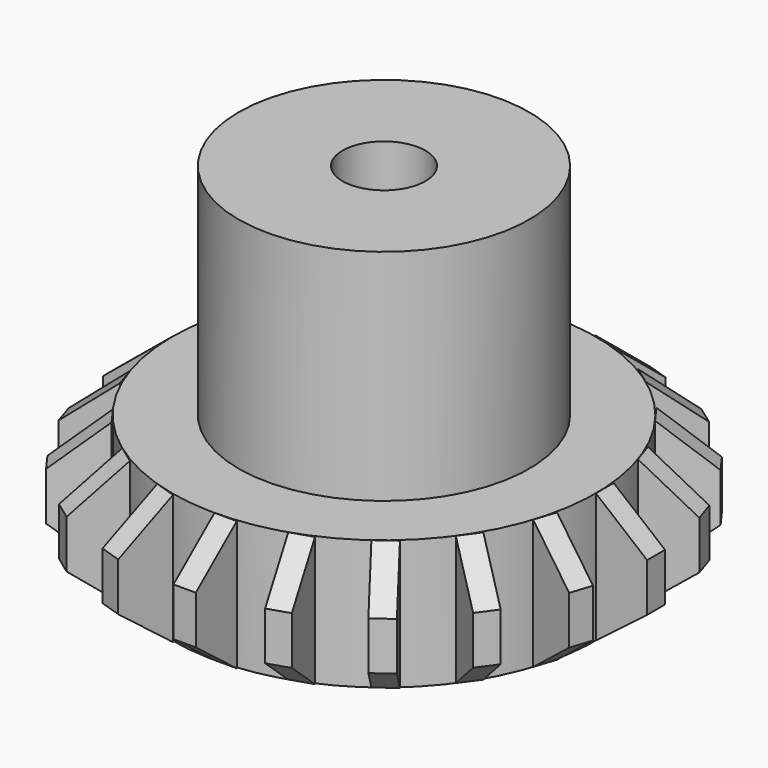
from build123d import *

# Parameters (mm, degrees)
F0_W     = 0.9702211246
F0_H     = 11.6233751178
F0_W_2   = 5.9632947668
F2_DEPTH = 2
F3_COUNT = 20


with BuildPart() as f1:
    # F0 (on Front) → F1 (revolve)
    with BuildSketch(Plane.XZ):
        Polygon((-8.3493674174, 0), (0, 0), (0, 31.2871970236), (-9.319588542, 31.2871970236), (-9.319588542, 11.6233751178), (-8.3493674174, 11.6233751178), align=None)
        with Locations((-8.8344779797, 5.8116875589)):
            Rectangle(F0_W, F0_H)
        with Locations((-12.3012359254, 5.8116875589)):
            Rectangle(F0_W_2, F0_H)
    revolve(axis=Axis((3.7140103523, 0, 15.1801782195), (0, 0, -1)))


with BuildPart() as f2:
    # F0 (on Front) → F2 (new body)
    with BuildSketch(Plane.XZ):
        Polygon((-19.8752097785, 3.5192684736), (-15.2828833088, 0), (-15.2828833088, 11.6233751178), (-19.8752097785, 7.8414585441), align=None)
    extrude(amount=F2_DEPTH)


with BuildPart() as f3_1:
    # F3: instance of F2
    add(f2.part.rotate(Axis((3.7140103523, 0, 15.1801782195), (0, 0, -1)), 1 * 360 / F3_COUNT))


with BuildPart() as f3_2:
    # F3: instance of F2
    add(f2.part.rotate(Axis((3.7140103523, 0, 15.1801782195), (0, 0, -1)), 2 * 360 / F3_COUNT))


with BuildPart() as f3_3:
    # F3: instance of F2
    add(f2.part.rotate(Axis((3.7140103523, 0, 15.1801782195), (0, 0, -1)), 3 * 360 / F3_COUNT))


with BuildPart() as f3_4:
    # F3: instance of F2
    add(f2.part.rotate(Axis((3.7140103523, 0, 15.1801782195), (0, 0, -1)), 4 * 360 / F3_COUNT))


with BuildPart() as f3_5:
    # F3: instance of F2
    add(f2.part.rotate(Axis((3.7140103523, 0, 15.1801782195), (0, 0, -1)), 5 * 360 / F3_COUNT))


with BuildPart() as f3_6:
    # F3: instance of F2
    add(f2.part.rotate(Axis((3.7140103523, 0, 15.1801782195), (0, 0, -1)), 6 * 360 / F3_COUNT))


with BuildPart() as f3_7:
    # F3: instance of F2
    add(f2.part.rotate(Axis((3.7140103523, 0, 15.1801782195), (0, 0, -1)), 7 * 360 / F3_COUNT))


with BuildPart() as f3_8:
    # F3: instance of F2
    add(f2.part.rotate(Axis((3.7140103523, 0, 15.1801782195), (0, 0, -1)), 8 * 360 / F3_COUNT))


with BuildPart() as f3_9:
    # F3: instance of F2
    add(f2.part.rotate(Axis((3.7140103523, 0, 15.1801782195), (0, 0, -1)), 9 * 360 / F3_COUNT))


with BuildPart() as f3_10:
    # F3: instance of F2
    add(f2.part.rotate(Axis((3.7140103523, 0, 15.1801782195), (0, 0, -1)), 10 * 360 / F3_COUNT))


with BuildPart() as f3_11:
    # F3: instance of F2
    add(f2.part.rotate(Axis((3.7140103523, 0, 15.1801782195), (0, 0, -1)), 11 * 360 / F3_COUNT))


with BuildPart() as f3_12:
    # F3: instance of F2
    add(f2.part.rotate(Axis((3.7140103523, 0, 15.1801782195), (0, 0, -1)), 12 * 360 / F3_COUNT))


with BuildPart() as f3_13:
    # F3: instance of F2
    add(f2.part.rotate(Axis((3.7140103523, 0, 15.1801782195), (0, 0, -1)), 13 * 360 / F3_COUNT))


with BuildPart() as f3_14:
    # F3: instance of F2
    add(f2.part.rotate(Axis((3.7140103523, 0, 15.1801782195), (0, 0, -1)), 14 * 360 / F3_COUNT))


with BuildPart() as f3_15:
    # F3: instance of F2
    add(f2.part.rotate(Axis((3.7140103523, 0, 15.1801782195), (0, 0, -1)), 15 * 360 / F3_COUNT))


with BuildPart() as f3_16:
    # F3: instance of F2
    add(f2.part.rotate(Axis((3.7140103523, 0, 15.1801782195), (0, 0, -1)), 16 * 360 / F3_COUNT))


with BuildPart() as f3_17:
    # F3: instance of F2
    add(f2.part.rotate(Axis((3.7140103523, 0, 15.1801782195), (0, 0, -1)), 17 * 360 / F3_COUNT))


with BuildPart() as f3_18:
    # F3: instance of F2
    add(f2.part.rotate(Axis((3.7140103523, 0, 15.1801782195), (0, 0, -1)), 18 * 360 / F3_COUNT))


with BuildPart() as f3_19:
    # F3: instance of F2
    add(f2.part.rotate(Axis((3.7140103523, 0, 15.1801782195), (0, 0, -1)), 19 * 360 / F3_COUNT))


solid = Compound([f1.part, f2.part, f3_1.part, f3_2.part, f3_3.part, f3_4.part, f3_5.part, f3_6.part, f3_7.part, f3_8.part, f3_9.part, f3_10.part, f3_11.part, f3_12.part, f3_13.part, f3_14.part, f3_15.part, f3_16.part, f3_17.part, f3_18.part, f3_19.part])
